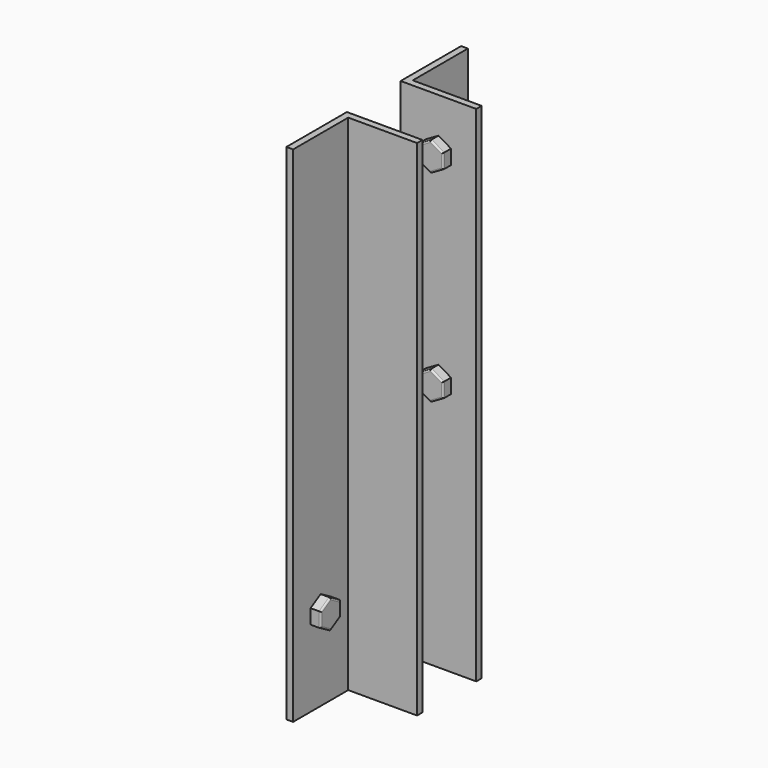
from build123d import *

# Parameters (mm, degrees)
F1_DEPTH = 300
F3_DEPTH = 6
F4_R     = 1
F6_DEPTH = 6
F7_R     = 1


with BuildPart() as f1:
    # F0 (on Top) → F1 (new body)
    with BuildSketch(Plane.XY):
        Polygon((-10, 65), (-10, 20), (35, 20), (35, 24), (-6, 24), (-6, 65), align=None)
    extrude(amount=F1_DEPTH)

    # F2 (on face) → F3 (join)
    with BuildSketch(Plane.XZ.offset(-20)):
        Polygon((12.5, 261.339746), (20, 265.669873), (20, 274.330127), (12.5, 278.660254), (5, 274.330127), (5, 265.669873), align=None)
        Polygon((12.5, 141.339746), (20, 145.669873), (20, 154.330127), (12.5, 158.660254), (5, 154.330127), (5, 145.669873), align=None)
    extrude(amount=F3_DEPTH)

    # F4
    f4_edges = [f1.edges().sort_by_distance(p)[0] for p in [
        (16.25, 14, 263.504809),
        (20, 14, 270),
        (16.25, 14, 276.495191),
        (8.75, 14, 276.495191),
        (5, 14, 270),
        (8.75, 14, 263.504809),
        (16.25, 14, 143.504809),
        (20, 14, 150),
        (16.25, 14, 156.495191),
        (8.75, 14, 156.495191),
        (5, 14, 150),
        (8.75, 14, 143.504809),
    ]]
    fillet(f4_edges, radius=F4_R)

    # F5 (on face) → F6 (join)
    with BuildSketch(Plane.YZ.offset(-6)):
        Polygon((44.5, 41.339746), (52, 45.669873), (52, 54.330127), (44.5, 58.660254), (37, 54.330127), (37, 45.669873), align=None)
    extrude(amount=F6_DEPTH)

    # F7
    f7_edges = [f1.edges().sort_by_distance(p)[0] for p in [
        (0, 48.25, 43.504809),
        (0, 52, 50),
        (0, 48.25, 56.495191),
        (0, 40.75, 56.495191),
        (0, 37, 50),
        (0, 40.75, 43.504809),
    ]]
    fillet(f7_edges, radius=F7_R)


with BuildPart() as f8_1:
    # F8: instance of F1
    add(f1.part.mirror(Plane.XZ))


solid = Compound([f1.part, f8_1.part])
